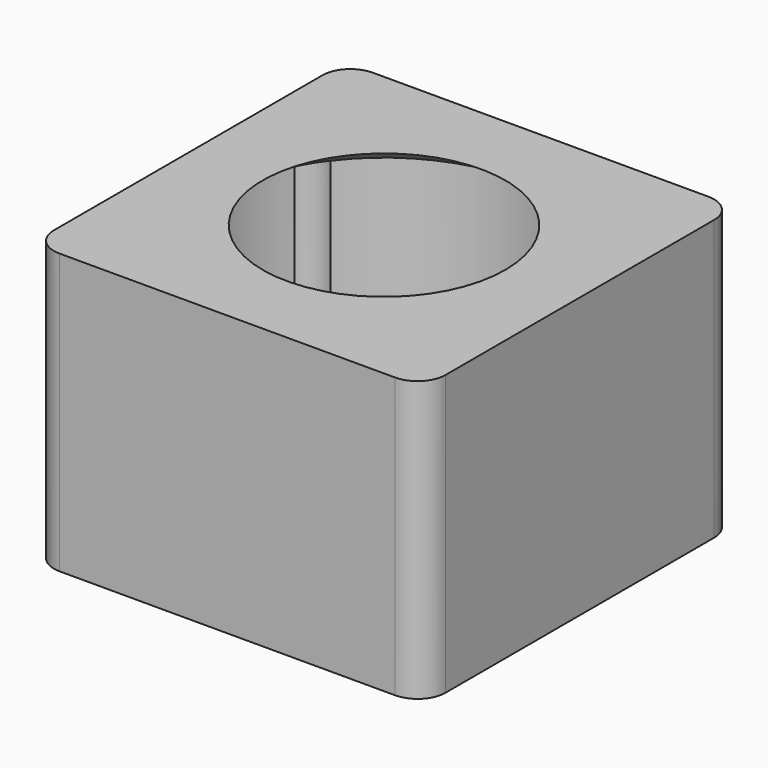
from build123d import *

# Parameters (mm, degrees)
F0_W      = 70
F0_H      = 70
F0_R      = 20
F3_DEPTH  = 50
F4_D      = 10
F4_DEPTH  = 45
F4_TIP    = 3.0043030951
F5_D      = 10
F5_DEPTH  = 45
F5_TIP    = 3.0043030951
F7_R      = 5
F8_R      = 5
F9_R      = 5
F10_R     = 5
F11_D     = 60
F11_DEPTH = 45
F11_TIP   = 18.0258185708


with BuildPart() as f3:
    # F0 (on Top) → F3 (new body)
    with BuildSketch(Plane.XY):
        with Locations((-35, 35)):
            Rectangle(F0_W, F0_H)
        with Locations((-35, 35)):
            Circle(F0_R, mode=Mode.SUBTRACT)
    extrude(amount=F3_DEPTH)

    # F4
    with Locations(Plane(origin=(0, 0, 0), x_dir=(1, 0, 0), z_dir=(0, 0, -1))):
        with Locations((-64, -17)):
            Hole(F4_D / 2, depth=F4_DEPTH)
            with Locations((0, 0, -(F4_DEPTH + F4_TIP / 2))):  # 118° drill point
                Cone(0, F4_D / 2, F4_TIP, mode=Mode.SUBTRACT)

    # F5
    with Locations(Plane(origin=(0, 0, 0), x_dir=(1, 0, 0), z_dir=(0, 0, -1))):
        with Locations((-6, -53), (-6, -17), (-64, -53)):
            Hole(F5_D / 2, depth=F5_DEPTH)
            with Locations((0, 0, -(F5_DEPTH + F5_TIP / 2))):  # 118° drill point
                Cone(0, F5_D / 2, F5_TIP, mode=Mode.SUBTRACT)

    # F7
    f7_edges = [f3.edges().sort_by_distance(p)[0] for p in [
        (0, 0, 25),
    ]]
    fillet(f7_edges, radius=F7_R)

    # F8
    f8_edges = [f3.edges().sort_by_distance(p)[0] for p in [
        (-70, 0, 25),
    ]]
    fillet(f8_edges, radius=F8_R)

    # F9
    f9_edges = [f3.edges().sort_by_distance(p)[0] for p in [
        (0, 70, 25),
    ]]
    fillet(f9_edges, radius=F9_R)

    # F10
    f10_edges = [f3.edges().sort_by_distance(p)[0] for p in [
        (-70, 70, 25),
    ]]
    fillet(f10_edges, radius=F10_R)

    # F11
    with Locations(Plane(origin=(0, 0, 0), x_dir=(1, 0, 0), z_dir=(0, 0, -1))):
        with Locations((-35, -35)):
            Hole(F11_D / 2, depth=F11_DEPTH)
            with Locations((0, 0, -(F11_DEPTH + F11_TIP / 2))):  # 118° drill point
                Cone(0, F11_D / 2, F11_TIP, mode=Mode.SUBTRACT)


solid = f3.part
